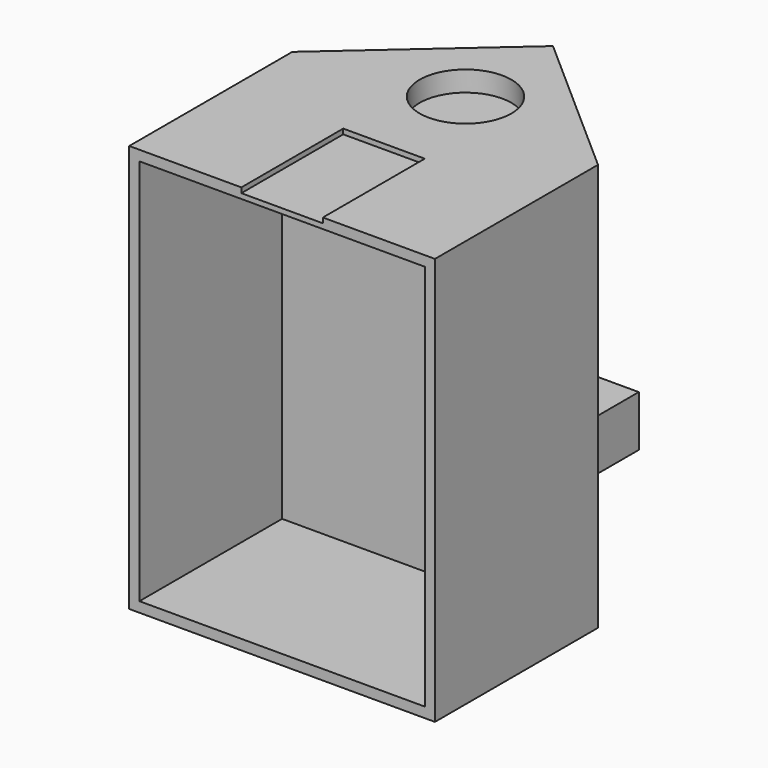
from build123d import *

# Parameters (mm, degrees)
F0_W     = 76.2
F0_H     = 50.8
F1_DEPTH = 101.6
F3_W     = 71.12
F3_H     = 96.52
F4_DEPTH = 44.45
F2_R     = 11.43
F5_DEPTH = 5.08
F2_W     = 20.32
F2_H     = 31.75
F6_DEPTH = 1.27
F7_W     = 12.7
F7_H     = 12.7
F7_W_2   = 10.16
F7_H_2   = 10.16
F8_DEPTH = 50.8
F9_DEPTH = 50.801


with BuildPart() as f1:
    # F0 (on Top) → F1 (new body)
    with BuildSketch(Plane.XY):
        Polygon((38.1, 84.401042), (0, 50.8), (76.2, 50.8), align=None)
        with Locations((38.1, 25.4)):
            Rectangle(F0_W, F0_H)
    extrude(amount=F1_DEPTH)

    # F3 (on face) → F4 (cut)
    with BuildSketch(Plane.XZ):
        with Locations((38.1, 50.8)):
            Rectangle(F3_W, F3_H)
    extrude(amount=-F4_DEPTH, mode=Mode.SUBTRACT)

    # F2 (on face) → F5 (cut)
    with BuildSketch(Plane.XY.offset(101.6)):
        with Locations((38.1, 57.15)):
            Circle(F2_R)
    extrude(amount=-F5_DEPTH, mode=Mode.SUBTRACT)

    # F2 (on face) → F6 (cut)
    with BuildSketch(Plane.XY.offset(101.6)):
        with Locations((38.1, 15.875)):
            Rectangle(F2_W, F2_H)
        with Locations((38.1, 57.15)):
            Circle(F2_R)
    extrude(amount=-F6_DEPTH, mode=Mode.SUBTRACT)

    # F7 (on face) → F8 (join)
    with BuildSketch(Plane.XZ.offset(-44.45)):
        with Locations((44.45, 19.05)):
            Rectangle(F7_W, F7_H)
        with Locations((44.45, 19.05)):
            Rectangle(F7_W_2, F7_H_2, mode=Mode.SUBTRACT)
    extrude(amount=-F8_DEPTH)

    # F7 (on face) → F9 (cut, through all)
    with BuildSketch(Plane.XZ.offset(-44.45)):
        with Locations((44.45, 19.05)):
            Rectangle(F7_W_2, F7_H_2)
    extrude(amount=-F9_DEPTH, mode=Mode.SUBTRACT)


solid = f1.part
